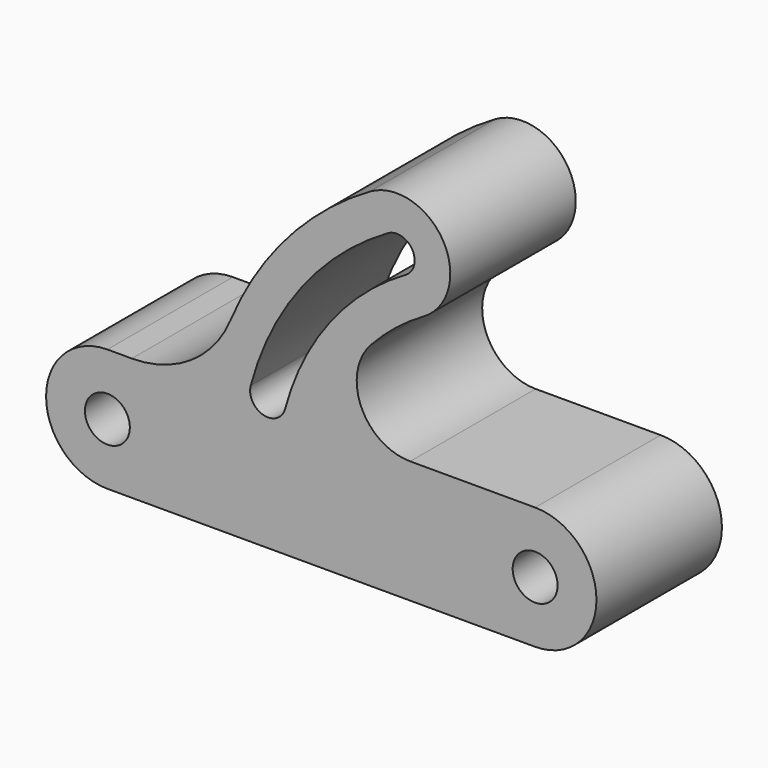
from build123d import *

# Parameters (mm, degrees)
F0_R     = 0.315
F1_DEPTH = 2.2


with BuildPart() as f1:
    # F0 (on Front) → F1 (new body)
    with BuildSketch(Plane.XZ):
        with BuildLine():
            Line((-3, -0.86), (0, -0.86))
            ThreePointArc((0, -0.86), (0.86, 0), (0, 0.86))
            Line((0, 0.86), (-1.752798, 0.86))
            ThreePointArc((-1.752798, 0.86), (-2.439462, 1.30835), (-2.30515, 2.117353))
            ThreePointArc((-2.30515, 2.117353), (-1.957682, 2.442208), (-1.565, 2.71066))
            ThreePointArc((-1.565, 2.71066), (-1.290481, 3.735179), (-2.315, 4.009698))
            ThreePointArc((-2.315, 4.009698), (-3.4772, 3.05712), (-4.273119, 1.782512))
            ThreePointArc((-4.273119, 1.782512), (-4.825704, 1.111755), (-5.657499, 0.86))
            Line((-5.657499, 0.86), (-6, 0.86))
            ThreePointArc((-6, 0.86), (-6.86, 0), (-6, -0.86))
            Line((-6, -0.86), (-3.009535, -0.86))
            Line((-3.009535, -0.86), (-3, -0.86))
        make_face()
        with Locations((-6, 0)):
            Circle(F0_R, mode=Mode.SUBTRACT)
        Circle(F0_R, mode=Mode.SUBTRACT)
        with BuildLine():
            ThreePointArc((-2.065, 3.576685), (-1.723494, 3.485179), (-1.815, 3.143672))
            ThreePointArc((-1.815, 3.143672), (-2.879873, 2.209804), (-3.506311, 0.939513))
            ThreePointArc((-3.506311, 0.939513), (-3.812497, 0.762736), (-3.989274, 1.068923))
            ThreePointArc((-3.989274, 1.068923), (-3.276549, 2.514185), (-2.065, 3.576685))
        make_face(mode=Mode.SUBTRACT)
    extrude(amount=-F1_DEPTH)


solid = f1.part
